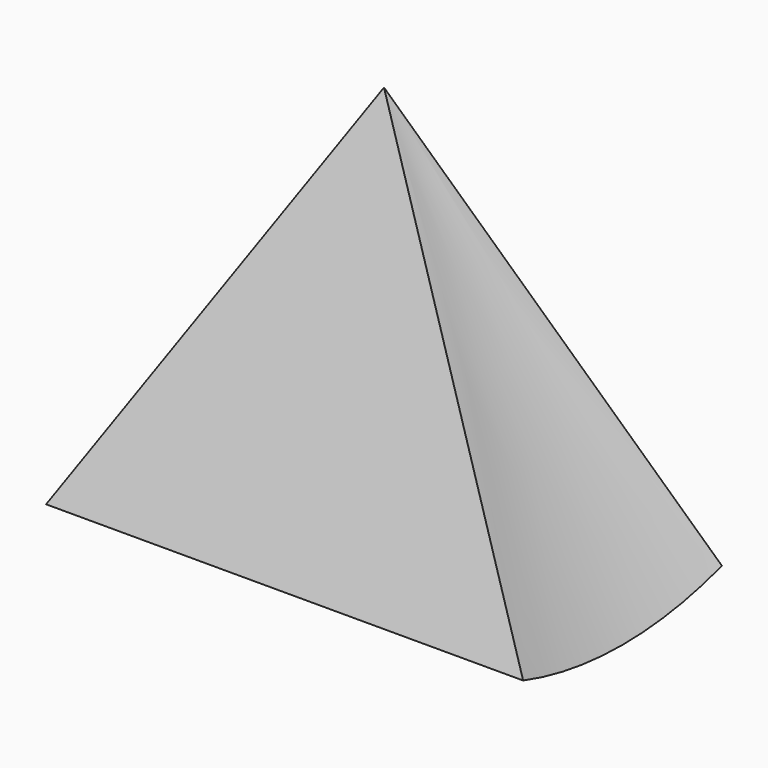
from build123d import *

# Parameters (mm, degrees)
F1_ANGLE_BACK = 17.5
F1_ANGLE      = 35


with BuildPart() as f1:
    # F0 (on Front) → F1 (revolve)
    with BuildSketch(Plane.XZ, mode=Mode.PRIVATE) as f1_sk:
        Polygon((0, -333.381301863), (0, 359.4390211646), (-400, -333.381301863), align=None)
    revolve(f1_sk.sketch.rotate(Axis((-284.2236757278, 0, 359.4390211646), (1, 0, 0)), -F1_ANGLE_BACK), axis=Axis((-284.2236757278, 0, 359.4390211646), (1, 0, 0)), revolution_arc=F1_ANGLE)

    # F2: F1 across face


with BuildPart() as f1_1:
    add(f1.part)
    add(f1.part.mirror(Plane(origin=(0, 0, -95.2932200815), x_dir=(0, 1, 0), z_dir=(1, 0, 0))))


solid = f1_1.part
